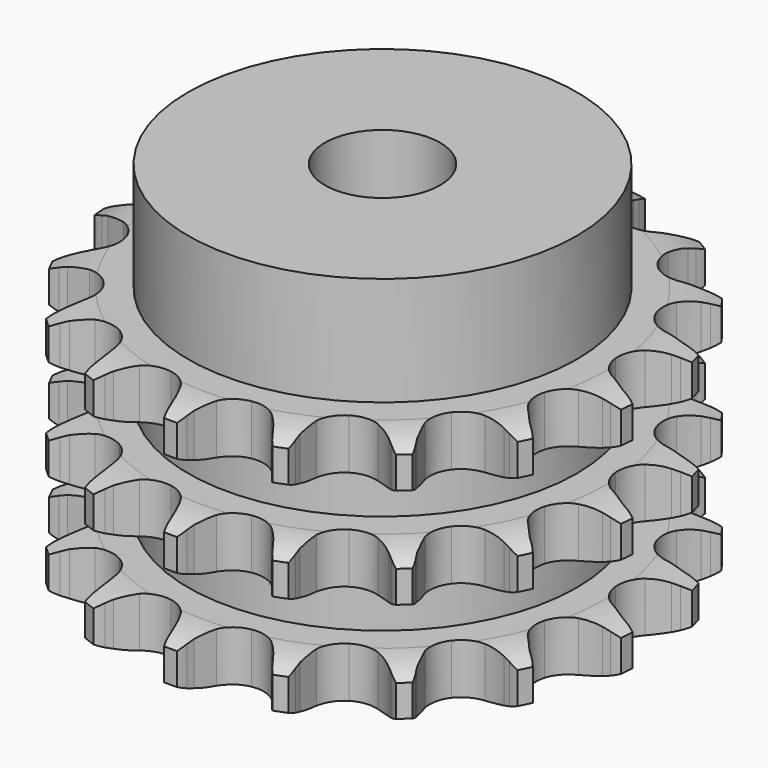
from build123d import *

# Parameters (mm, degrees)
PAD_DEPTH         = 34.9
SKETCH001_R       = 27
PAD001_DEPTH      = 50
SKETCH002_R       = 8
POCKET_DEPTH      = 0.001
POCKET_DEPTH_BACK = 50.001


with BuildPart() as part:
    # Sprocket → Pad (new body)
    with BuildSketch(Plane.XY):
        with BuildLine():
            ThreePointArc((-7.040452, 37.663091), (-6.014058, 36.538724), (-5.252562, 35.220464))
            Line((-5.252562, 35.220464), (-4.84886, 34.306167))
            ThreePointArc((-4.84886, 34.306167), (-4.190227, 33.040945), (-3.375086, 31.870419))
            ThreePointArc((-3.375086, 31.870419), (-1.873362, 30.671483), (0, 30.243539))
            ThreePointArc((0, 30.243539), (1.873362, 30.671483), (3.375086, 31.870419))
            ThreePointArc((3.375086, 31.870419), (4.190227, 33.040945), (4.84886, 34.306167))
            Line((4.84886, 34.306167), (5.252562, 35.220464))
            ThreePointArc((5.252562, 35.220464), (6.014058, 36.538724), (7.040452, 37.663091))
            ThreePointArc((7.040452, 37.663091), (7.591368, 36.243874), (7.825231, 34.739549))
            Line((7.825231, 34.739549), (7.871389, 33.741158))
            ThreePointArc((7.871389, 33.741158), (8.028495, 32.323448), (8.365749, 30.937503))
            ThreePointArc((8.365749, 30.937503), (9.332959, 29.277043), (10.925226, 28.20126))
            ThreePointArc((10.925226, 28.20126), (12.826676, 27.92357), (14.660097, 28.499059))
            Line((14.660097, 28.499059), (16.914245, 30.237938))
            ThreePointArc((16.914245, 30.237938), (17.259664, 30.599241), (17.620967, 30.94466))
            ThreePointArc((17.620967, 30.94466), (18.807251, 31.898817), (20.170503, 32.576482))
            ThreePointArc((20.170503, 32.576482), (20.171537, 31.054087), (19.846183, 29.566865))
            Line((19.846183, 29.566865), (19.528564, 28.619219))
            ThreePointArc((19.528564, 28.619219), (19.162925, 27.240491), (18.976744, 25.826305))
            ThreePointArc((18.976744, 25.826305), (19.278813, 23.928575), (20.37494, 22.350245))
            ThreePointArc((20.37494, 22.350245), (22.047676, 21.404423), (23.965181, 21.278743))
            Line((23.965181, 21.278743), (26.695266, 22.085907))
            ThreePointArc((26.695266, 22.085907), (27.147878, 22.298033), (27.609563, 22.489609))
            ThreePointArc((27.609563, 22.489609), (29.060421, 22.950799), (30.576417, 23.090238))
            ThreePointArc((30.576417, 23.090238), (30.027428, 21.670274), (29.186798, 20.401012))
            Line((29.186798, 20.401012), (28.548298, 19.632096))
            ThreePointArc((28.548298, 19.632096), (27.709296, 18.478554), (27.024824, 17.227121))
            ThreePointArc((27.024824, 17.227121), (26.620956, 15.348422), (27.072906, 13.480705))
            ThreePointArc((27.072906, 13.480705), (28.291015, 11.994491), (30.033635, 11.184615))
            Line((30.033635, 11.184615), (32.870944, 10.951053))
            ThreePointArc((32.870944, 10.951053), (33.369621, 10.985352), (33.869335, 10.997211))
            ThreePointArc((33.869335, 10.997211), (35.388821, 10.903147), (36.852816, 10.48553))
            ThreePointArc((36.852816, 10.48553), (35.827949, 9.359771), (34.585574, 8.47989))
            Line((34.585574, 8.47989), (33.712427, 7.99355))
            ThreePointArc((33.712427, 7.99355), (32.513372, 7.220986), (31.423052, 6.30132))
            ThreePointArc((31.423052, 6.30132), (30.367792, 4.695378), (30.114525, 2.790522))
            ThreePointArc((30.114525, 2.790522), (30.713496, 0.964637), (32.045879, -0.420057))
            Line((32.045879, -0.420057), (34.607219, -1.662802))
            ThreePointArc((34.607219, -1.662802), (35.084612, -1.810962), (35.554865, -1.980421))
            ThreePointArc((35.554865, -1.980421), (36.937764, -2.617035), (38.152038, -3.535307))
            ThreePointArc((38.152038, -3.535307), (36.789707, -4.214822), (35.313377, -4.586489))
            Line((35.313377, -4.586489), (34.323505, -4.72457))
            ThreePointArc((34.323505, -4.72457), (32.926338, -5.011816), (31.577423, -5.47551))
            ThreePointArc((31.577423, -5.47551), (30.013289, -6.591802), (29.089011, -8.276537))
            ThreePointArc((29.089011, -8.276537), (28.987949, -10.195498), (29.73015, -11.967998))
            Line((29.73015, -11.967998), (31.669598, -14.052086))
            ThreePointArc((31.669598, -14.052086), (32.061231, -14.362695), (32.438514, -14.690586))
            ThreePointArc((32.438514, -14.690586), (33.498057, -15.783771), (34.298615, -17.078681))
            ThreePointArc((34.298615, -17.078681), (32.782811, -17.220179), (31.271913, -17.033437))
            Line((31.271913, -17.033437), (30.299004, -16.80461))
            ThreePointArc((30.299004, -16.80461), (28.892419, -16.567744), (27.467087, -16.512842))
            ThreePointArc((27.467087, -16.512842), (25.605325, -16.988723), (24.134865, -18.225804))
            ThreePointArc((24.134865, -18.225804), (23.347419, -19.978673), (23.3992, -21.899595))
            Line((23.3992, -21.899595), (24.454821, -24.543559))
            ThreePointArc((24.454821, -24.543559), (24.707804, -24.974667), (24.941161, -25.416706))
            ThreePointArc((24.941161, -25.416706), (25.534252, -26.818822), (25.812975, -28.315485))
            ThreePointArc((25.812975, -28.315485), (24.348414, -27.899856), (23.007003, -27.179924))
            Line((23.007003, -27.179924), (22.182454, -26.615095))
            ThreePointArc((22.182454, -26.615095), (20.956419, -25.886107), (19.64717, -25.320023))
            ThreePointArc((19.64717, -25.320023), (17.73922, -25.091222), (15.921172, -25.713575))
            ThreePointArc((15.921172, -25.713575), (14.55369, -27.063619), (13.908058, -28.87353))
            Line((13.908058, -28.87353), (13.937286, -31.720287))
            ThreePointArc((13.937286, -31.720287), (14.017451, -32.213672), (14.075367, -32.710159))
            ThreePointArc((14.075367, -32.710159), (14.121905, -34.231843), (13.84115, -35.728125))
            ThreePointArc((13.84115, -35.728125), (12.62563, -34.811503), (11.63487, -33.655613))
            Line((11.63487, -33.655613), (11.070041, -32.831064))
            ThreePointArc((11.070041, -32.831064), (10.190138, -31.708408), (9.173793, -30.707594))
            ThreePointArc((9.173793, -30.707594), (7.477335, -29.805013), (5.557236, -29.728585))
            ThreePointArc((5.557236, -29.728585), (3.794405, -30.493472), (2.538556, -31.947935))
            Line((2.538556, -31.947935), (1.537442, -34.613015))
            ThreePointArc((1.537442, -34.613015), (1.433963, -35.102041), (1.308616, -35.585924))
            ThreePointArc((1.308616, -35.585924), (0.802316, -37.021663), (0, -38.315485))
            ThreePointArc((0, -38.315485), (-0.802316, -37.021663), (-1.308616, -35.585924))
            Line((-1.308616, -35.585924), (-1.537442, -34.613015))
            ThreePointArc((-1.537442, -34.613015), (-1.952377, -33.248312), (-2.538556, -31.947935))
            ThreePointArc((-2.538556, -31.947935), (-3.794405, -30.493472), (-5.557236, -29.728585))
            ThreePointArc((-5.557236, -29.728585), (-7.477335, -29.805013), (-9.173793, -30.707594))
            Line((-9.173793, -30.707594), (-11.070041, -32.831064))
            ThreePointArc((-11.070041, -32.831064), (-11.343189, -33.249686), (-11.63487, -33.655613))
            ThreePointArc((-11.63487, -33.655613), (-12.62563, -34.811503), (-13.84115, -35.728125))
            ThreePointArc((-13.84115, -35.728125), (-14.121905, -34.231843), (-14.075367, -32.710159))
            Line((-14.075367, -32.710159), (-13.937286, -31.720287))
            ThreePointArc((-13.937286, -31.720287), (-13.831213, -30.297848), (-13.908058, -28.87353))
            ThreePointArc((-13.908058, -28.87353), (-14.55369, -27.063619), (-15.921172, -25.713575))
            ThreePointArc((-15.921172, -25.713575), (-17.73922, -25.091222), (-19.64717, -25.320023))
            Line((-19.64717, -25.320023), (-22.182454, -26.615095))
            ThreePointArc((-22.182454, -26.615095), (-22.588381, -26.906776), (-23.007003, -27.179924))
            ThreePointArc((-23.007003, -27.179924), (-24.348414, -27.899856), (-25.812975, -28.315485))
            ThreePointArc((-25.812975, -28.315485), (-25.534252, -26.818822), (-24.941161, -25.416706))
            Line((-24.941161, -25.416706), (-24.454821, -24.543559))
            ThreePointArc((-24.454821, -24.543559), (-23.842067, -23.255491), (-23.3992, -21.899595))
            ThreePointArc((-23.3992, -21.899595), (-23.347419, -19.978673), (-24.134865, -18.225804))
            ThreePointArc((-24.134865, -18.225804), (-25.605325, -16.988723), (-27.467087, -16.512842))
            Line((-27.467087, -16.512842), (-30.299004, -16.80461))
            ThreePointArc((-30.299004, -16.80461), (-30.782887, -16.929957), (-31.271913, -17.033437))
            ThreePointArc((-31.271913, -17.033437), (-32.782811, -17.220179), (-34.298615, -17.078681))
            ThreePointArc((-34.298615, -17.078681), (-33.498057, -15.783771), (-32.438514, -14.690586))
            Line((-32.438514, -14.690586), (-31.669598, -14.052086))
            ThreePointArc((-31.669598, -14.052086), (-30.632918, -13.072352), (-29.73015, -11.967998))
            ThreePointArc((-29.73015, -11.967998), (-28.987949, -10.195498), (-29.089011, -8.276537))
            ThreePointArc((-29.089011, -8.276537), (-30.013289, -6.591802), (-31.577423, -5.47551))
            Line((-31.577423, -5.47551), (-34.323505, -4.72457))
            ThreePointArc((-34.323505, -4.72457), (-34.819993, -4.666654), (-35.313377, -4.586489))
            ThreePointArc((-35.313377, -4.586489), (-36.789707, -4.214822), (-38.152038, -3.535307))
            ThreePointArc((-38.152038, -3.535307), (-36.937764, -2.617035), (-35.554865, -1.980421))
            Line((-35.554865, -1.980421), (-34.607219, -1.662802))
            ThreePointArc((-34.607219, -1.662802), (-33.286623, -1.123719), (-32.045879, -0.420057))
            ThreePointArc((-32.045879, -0.420057), (-30.713496, 0.964637), (-30.114525, 2.790522))
            ThreePointArc((-30.114525, 2.790522), (-30.367792, 4.695378), (-31.423052, 6.30132))
            Line((-31.423052, 6.30132), (-33.712427, 7.99355))
            ThreePointArc((-33.712427, 7.99355), (-34.154466, 8.226907), (-34.585574, 8.47989))
            ThreePointArc((-34.585574, 8.47989), (-35.827949, 9.359771), (-36.852816, 10.48553))
            ThreePointArc((-36.852816, 10.48553), (-35.388821, 10.903147), (-33.869335, 10.997211))
            Line((-33.869335, 10.997211), (-32.870944, 10.951053))
            ThreePointArc((-32.870944, 10.951053), (-31.444786, 10.976679), (-30.033635, 11.184615))
            ThreePointArc((-30.033635, 11.184615), (-28.291015, 11.994491), (-27.072906, 13.480705))
            ThreePointArc((-27.072906, 13.480705), (-26.620956, 15.348422), (-27.024824, 17.227121))
            Line((-27.024824, 17.227121), (-28.548298, 19.632096))
            ThreePointArc((-28.548298, 19.632096), (-28.876189, 20.009379), (-29.186798, 20.401012))
            ThreePointArc((-29.186798, 20.401012), (-30.027428, 21.670274), (-30.576417, 23.090238))
            ThreePointArc((-30.576417, 23.090238), (-29.060421, 22.950799), (-27.609563, 22.489609))
            Line((-27.609563, 22.489609), (-26.695266, 22.085907))
            ThreePointArc((-26.695266, 22.085907), (-25.356156, 21.594615), (-23.965181, 21.278743))
            ThreePointArc((-23.965181, 21.278743), (-22.047676, 21.404423), (-20.37494, 22.350245))
            ThreePointArc((-20.37494, 22.350245), (-19.278813, 23.928575), (-18.976744, 25.826305))
            Line((-18.976744, 25.826305), (-19.528564, 28.619219))
            ThreePointArc((-19.528564, 28.619219), (-19.698023, 29.089473), (-19.846183, 29.566865))
            ThreePointArc((-19.846183, 29.566865), (-20.171537, 31.054087), (-20.170503, 32.576482))
            ThreePointArc((-20.170503, 32.576482), (-18.807251, 31.898817), (-17.620967, 30.94466))
            Line((-17.620967, 30.94466), (-16.914245, 30.237938))
            ThreePointArc((-16.914245, 30.237938), (-15.843037, 29.296079), (-14.660097, 28.499059))
            ThreePointArc((-14.660097, 28.499059), (-12.826676, 27.92357), (-10.925226, 28.20126))
            ThreePointArc((-10.925226, 28.20126), (-9.332959, 29.277043), (-8.365749, 30.937503))
            Line((-8.365749, 30.937503), (-7.871389, 33.741158))
            ThreePointArc((-7.871389, 33.741158), (-7.85953, 34.240872), (-7.825231, 34.739549))
            ThreePointArc((-7.825231, 34.739549), (-7.591368, 36.243874), (-7.040452, 37.663091))
        make_face()
    extrude(amount=PAD_DEPTH)

    # Sketch → Groove (revolve, cut)
    with BuildSketch(Plane.XZ):
        with BuildLine():
            ThreePointArc((31.133431, 0), (34.04032, 0.329167), (36.8, 1.3))
            Line((36.8, 1.3), (36.8, 5.7))
            ThreePointArc((36.8, 5.7), (34.04032, 6.670833), (31.133431, 7))
            Line((27, 7), (31.133431, 7))
            Line((27, 7), (27, 13.95))
            Line((27, 13.95), (31.133431, 13.95))
            ThreePointArc((31.133431, 13.95), (34.04032, 14.279167), (36.8, 15.25))
            Line((36.8, 19.65), (36.8, 15.25))
            ThreePointArc((36.8, 19.65), (34.04032, 20.620833), (31.133431, 20.95))
            Line((27, 20.95), (31.133431, 20.95))
            Line((27, 27.9), (27, 20.95))
            Line((31.133431, 27.9), (27, 27.9))
            ThreePointArc((31.133431, 27.9), (34.04032, 28.229167), (36.8, 29.2))
            Line((36.8, 29.2), (36.8, 33.6))
            ThreePointArc((36.8, 33.6), (34.04032, 34.570833), (31.133431, 34.9))
            Line((31.133431, 34.9), (46.8, 34.9))
            Line((46.8, 34.9), (46.8, 0))
            Line((31.133431, 0), (46.8, 0))
        make_face()
    revolve(axis=Axis((0, 0, 0), (0, 0, 1)), mode=Mode.SUBTRACT)

    # Sketch001 → Pad001 (join)
    with BuildSketch(Plane.XY):
        Circle(SKETCH001_R)
    extrude(amount=PAD001_DEPTH)

    # Sketch002 → Pocket (cut, two sides)
    with BuildSketch(Plane.XY) as pocket_sk:
        Circle(SKETCH002_R)
    extrude(amount=-POCKET_DEPTH, mode=Mode.SUBTRACT)
    extrude(pocket_sk.sketch, amount=POCKET_DEPTH_BACK, mode=Mode.SUBTRACT)


solid = part.part
